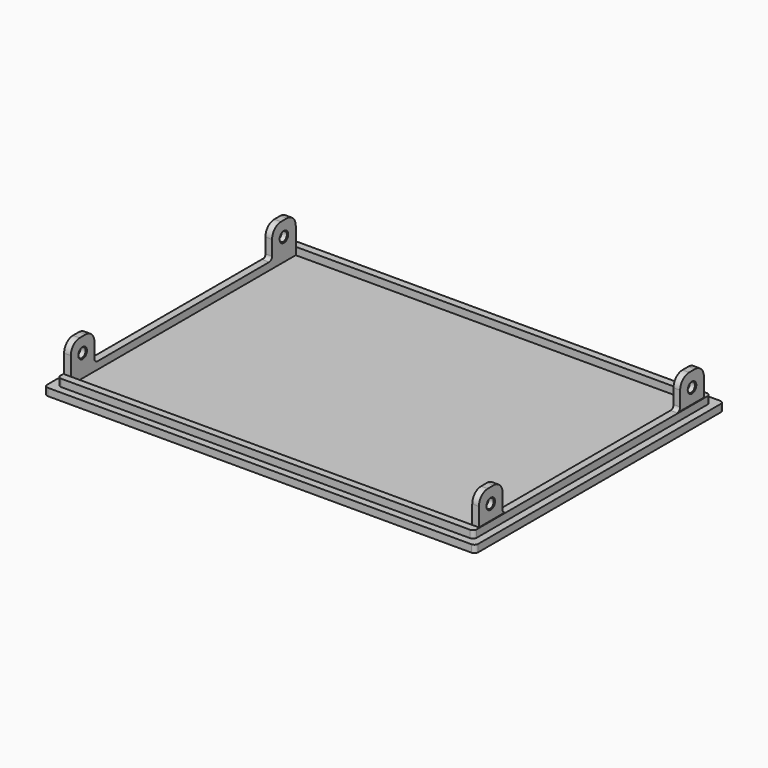
from build123d import *

# Parameters (mm, degrees)
SKETCH007_W     = 116.5
SKETCH007_H     = 84
PAD002_DEPTH    = 2
SKETCH008_W     = 112.5
SKETCH008_H     = 80
PAD003_DEPTH    = 2
SKETCH009_W     = 108.5
SKETCH009_H     = 76
POCKET004_DEPTH = 2
FILLET008_R     = 1
SKETCH010_W     = 2
SKETCH010_H     = 8
PAD004_DEPTH    = 8
FILLET010_R     = 3
SKETCH011_R     = 1.25
POCKET005_DEPTH = 2
SKETCH012_W     = 2
SKETCH012_H     = 8
PAD005_DEPTH    = 8
SKETCH013_W     = 2
SKETCH013_H     = 8
PAD006_DEPTH    = 8
SKETCH014_W     = 2
SKETCH014_H     = 8
PAD007_DEPTH    = 8
FILLET011_R     = 3
FILLET012_R     = 3
FILLET013_R     = 3
SKETCH015_R     = 1.25
POCKET006_DEPTH = 5
SKETCH016_R     = 1.25
POCKET007_DEPTH = 5
SKETCH017_R     = 1.25
POCKET008_DEPTH = 5
FILLET014_R     = 1
FILLET015_R     = 1
FILLET016_R     = 1
SKETCH018_W     = 88.5656
SKETCH018_H     = 13.4224
POCKET009_DEPTH = 0.2
SKETCH019_W     = 85.956
SKETCH019_H     = 9.716
POCKET010_DEPTH = 0.2
CHAMFER006_SIZE = 0.2
CHAMFER007_SIZE = 0.2
CHAMFER008_SIZE = 0.2
CHAMFER009_SIZE = 0.2


with BuildPart() as part:
    # Sketch007 → Pad002 (new body)
    with BuildSketch(Plane(origin=(0, 0, 0), x_dir=(1, 0, 0), z_dir=(0, 0, -1))):
        with Locations((58.25, 42)):
            Rectangle(SKETCH007_W, SKETCH007_H)
    extrude(amount=PAD002_DEPTH)

    # Sketch008 (on Face5 of Pad002) → Pad003 (new body)
    with BuildSketch(Plane.XY):
        with Locations((58.25, -42)):
            Rectangle(SKETCH008_W, SKETCH008_H)
    extrude(amount=PAD003_DEPTH)

    # Sketch009 (on Face11 of Pad003) → Pocket004 (cut)
    with BuildSketch(Plane.XY.offset(2)):
        with Locations((58.25, -42)):
            Rectangle(SKETCH009_W, SKETCH009_H)
    extrude(amount=-POCKET004_DEPTH, mode=Mode.SUBTRACT)

    # Fillet008
    fillet008_edges = [part.edges().sort_by_distance(p)[0] for p in [
        (0, 0, -1),
        (116.5, 0, -1),
        (0, -84, -1),
        (116.5, -84, -1),
        (114.5, -82, 1),
        (2, -82, 1),
        (114.5, -2, 1),
        (2, -2, 1),
    ]]
    fillet(fillet008_edges, radius=FILLET008_R)

    # Sketch010 (on Face19 of Fillet008) → Pad004 (new body)
    with BuildSketch(Plane.XY.offset(2)):
        with Locations((3, -8)):
            Rectangle(SKETCH010_W, SKETCH010_H)
    extrude(amount=PAD004_DEPTH)

    # Fillet010
    fillet010_edges = [part.edges().sort_by_distance(p)[0] for p in [
        (3, -4, 10),
        (3, -12, 10),
    ]]
    fillet(fillet010_edges, radius=FILLET010_R)

    # Sketch011 (on Face5 of Fillet010) → Pocket005 (cut)
    with BuildSketch(Plane(origin=(2, 0, 0), x_dir=(0, -1, 0), z_dir=(-1, 0, 0))):
        with Locations((8, 6)):
            Circle(SKETCH011_R)
    extrude(amount=-POCKET005_DEPTH, mode=Mode.SUBTRACT)

    # Sketch012 (on Face11 of Pocket005) → Pad005 (new body)
    with BuildSketch(Plane.XY.offset(2)):
        with Locations((3, -76)):
            Rectangle(SKETCH012_W, SKETCH012_H)
    extrude(amount=PAD005_DEPTH)

    # Sketch013 (on Face11 of Pad005) → Pad006 (new body)
    with BuildSketch(Plane.XY.offset(2)):
        with Locations((113.5, -8)):
            Rectangle(SKETCH013_W, SKETCH013_H)
    extrude(amount=PAD006_DEPTH)

    # Sketch014 (on Face20 of Pad006) → Pad007 (new body)
    with BuildSketch(Plane.XY.offset(2)):
        with Locations((113.5, -76)):
            Rectangle(SKETCH014_W, SKETCH014_H)
    extrude(amount=PAD007_DEPTH)

    # Fillet011
    fillet011_edges = [part.edges().sort_by_distance(p)[0] for p in [
        (113.5, -72, 10),
        (113.5, -80, 10),
    ]]
    fillet(fillet011_edges, radius=FILLET011_R)

    # Fillet012
    fillet012_edges = [part.edges().sort_by_distance(p)[0] for p in [
        (113.5, -4, 10),
        (113.5, -12, 10),
    ]]
    fillet(fillet012_edges, radius=FILLET012_R)

    # Fillet013
    fillet013_edges = [part.edges().sort_by_distance(p)[0] for p in [
        (3, -72, 10),
        (3, -80, 10),
    ]]
    fillet(fillet013_edges, radius=FILLET013_R)

    # Sketch015 (on Face2 of Fillet013) → Pocket006 (cut)
    with BuildSketch(Plane(origin=(2, 0, 0), x_dir=(0, -1, 0), z_dir=(-1, 0, 0))):
        with Locations((76, 6)):
            Circle(SKETCH015_R)
    extrude(amount=-POCKET006_DEPTH, mode=Mode.SUBTRACT)

    # Sketch016 (on Face25 of Pocket006) → Pocket007 (cut)
    with BuildSketch(Plane.YZ.offset(114.5)):
        with Locations((-76, 6)):
            Circle(SKETCH016_R)
    extrude(amount=-POCKET007_DEPTH, mode=Mode.SUBTRACT)

    # Sketch017 (on Face24 of Pocket007) → Pocket008 (cut)
    with BuildSketch(Plane.YZ.offset(114.5)):
        with Locations((-8, 6)):
            Circle(SKETCH017_R)
    extrude(amount=-POCKET008_DEPTH, mode=Mode.SUBTRACT)

    # Fillet014
    fillet014_edges = [part.edges().sort_by_distance(p)[0] for p in [
        (113.5, -72, 2),
    ]]
    fillet(fillet014_edges, radius=FILLET014_R)

    # Fillet015
    fillet015_edges = [part.edges().sort_by_distance(p)[0] for p in [
        (3, -72, 2),
        (3, -12, 2),
    ]]
    fillet(fillet015_edges, radius=FILLET015_R)

    # Fillet016
    fillet016_edges = [part.edges().sort_by_distance(p)[0] for p in [
        (113.5, -12, 2),
    ]]
    fillet(fillet016_edges, radius=FILLET016_R)

    # Sketch018 (on Face46 of Fillet016) → Pocket009 (cut)
    with BuildSketch(Plane(origin=(2, 0, 0), x_dir=(0, -1, 0), z_dir=(-1, 0, 0))):
        with Locations((42.9281, 8.7112)):
            Rectangle(SKETCH018_W, SKETCH018_H)
    extrude(amount=-POCKET009_DEPTH, mode=Mode.SUBTRACT)

    # Sketch019 (on Face4 of Pocket009) → Pocket010 (cut)
    with BuildSketch(Plane.YZ.offset(114.5)):
        with Locations((-38.022, 6.858)):
            Rectangle(SKETCH019_W, SKETCH019_H)
    extrude(amount=-POCKET010_DEPTH, mode=Mode.SUBTRACT)

    # Chamfer006
    chamfer006_edges = [part.edges().sort_by_distance(p)[0] for p in [
        (114.3, -9.25, 6),
    ]]
    chamfer(chamfer006_edges, length=CHAMFER006_SIZE)

    # Chamfer007
    chamfer007_edges = [part.edges().sort_by_distance(p)[0] for p in [
        (114.3, -77.25, 6),
    ]]
    chamfer(chamfer007_edges, length=CHAMFER007_SIZE)

    # Chamfer008
    chamfer008_edges = [part.edges().sort_by_distance(p)[0] for p in [
        (2.2, -74.75, 6),
        (2.2, -6.75, 6),
        (4, -6.75, 6),
        (4, -74.75, 6),
    ]]
    chamfer(chamfer008_edges, length=CHAMFER008_SIZE)

    # Chamfer009
    chamfer009_edges = [part.edges().sort_by_distance(p)[0] for p in [
        (112.5, -77.25, 6),
        (112.5, -9.25, 6),
    ]]
    chamfer(chamfer009_edges, length=CHAMFER009_SIZE)


solid = part.part
